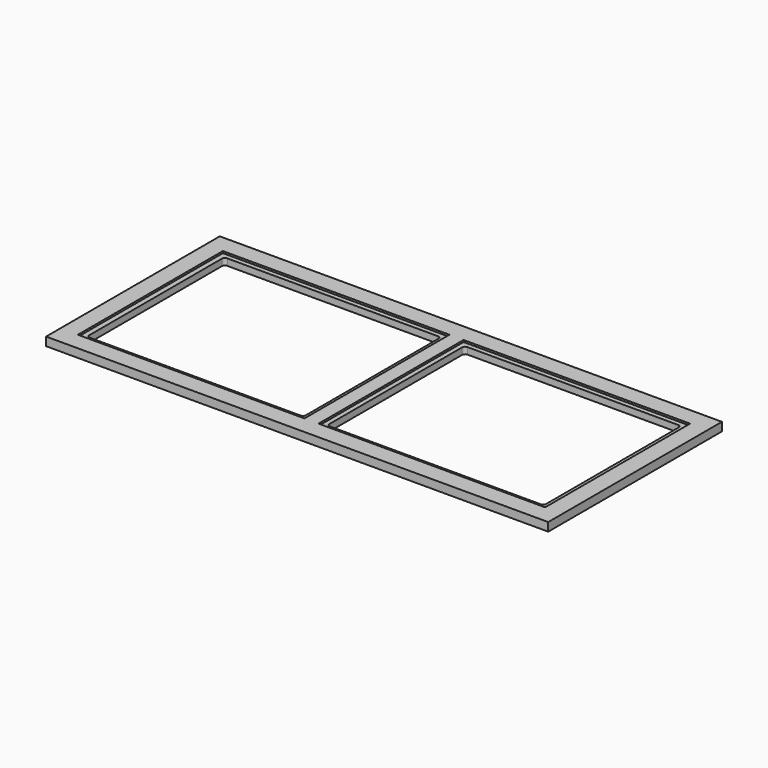
from build123d import *

# Parameters (mm, degrees)
SKETCH_W        = 1064
SKETCH_H        = 460
PAD_DEPTH       = 18
POCKET003_DEPTH = 18.001
SKETCH005_W     = 480
SKETCH005_H     = 384
POCKET_DEPTH    = 4


with BuildPart() as part:
    # Sketch → Pad (new body)
    with BuildSketch(Plane.XY):
        with Locations((-532, 230)):
            Rectangle(SKETCH_W, SKETCH_H)
    extrude(amount=PAD_DEPTH)

    # Sketch004 → Pocket003 (cut, through all)
    with BuildSketch(Plane(origin=(0, 0, 0), x_dir=(1, 0, 0), z_dir=(0, 0, -1))):
        with BuildLine():
            Line((-54.35, -412), (-500.65, -412))
            ThreePointArc((-507, -405.65), (-505.140128, -410.140128), (-500.65, -412))
            Line((-507, -54.35), (-507, -405.65))
            ThreePointArc((-500.65, -48), (-505.140128, -49.859872), (-507, -54.35))
            Line((-54.35, -48), (-500.65, -48))
            ThreePointArc((-48, -54.35), (-49.859872, -49.859872), (-54.35, -48))
            Line((-48, -405.65), (-48, -54.35))
            ThreePointArc((-54.35, -412), (-49.859872, -410.140128), (-48, -405.65))
        make_face()
        with BuildLine():
            Line((-557, -54.35), (-557, -405.65))
            ThreePointArc((-563.35, -412), (-558.859872, -410.140128), (-557, -405.65))
            Line((-563.35, -412), (-1009.65, -412))
            ThreePointArc((-1016, -405.65), (-1014.140128, -410.140128), (-1009.65, -412))
            Line((-1016, -405.65), (-1016, -54.35))
            ThreePointArc((-1009.65, -48), (-1014.140128, -49.859872), (-1016, -54.35))
            Line((-1009.65, -48), (-563.35, -48))
            ThreePointArc((-557, -54.35), (-558.859872, -49.859872), (-563.35, -48))
        make_face()
    extrude(amount=-POCKET003_DEPTH, mode=Mode.SUBTRACT)

    # Sketch005 (on Face5 of Pocket003) → Pocket (cut)
    with BuildSketch(Plane.XY.offset(18)):
        with Locations((-277, 230)):
            Rectangle(SKETCH005_W, SKETCH005_H)
        with Locations((-787, 230)):
            Rectangle(SKETCH005_W, SKETCH005_H)
    extrude(amount=-POCKET_DEPTH, mode=Mode.SUBTRACT)


solid = part.part
